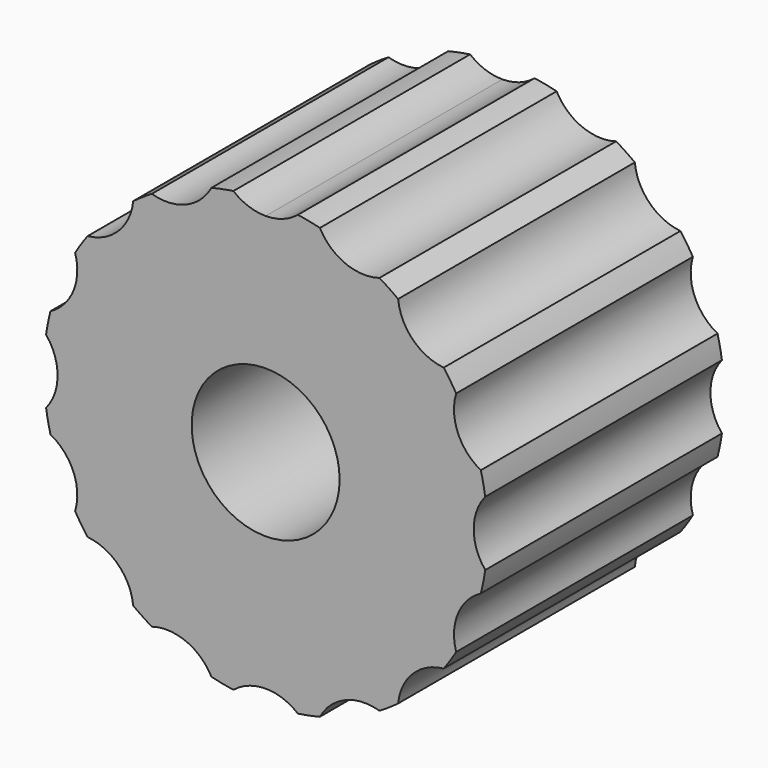
from build123d import *

# Parameters (mm, degrees)
F0_R     = 76.2
F0_R_2   = 25.4
F1_DEPTH = 101.6
F3_DEPTH = 101.6


with BuildPart() as f1:
    # F0 (on Front) → F1 (new body)
    with BuildSketch(Plane.XZ):
        Circle(F0_R)
        Circle(F0_R_2, mode=Mode.SUBTRACT)
    extrude(amount=F1_DEPTH)

    # F2 (on face) → F3 (cut)
    with BuildSketch(Plane.XZ.offset(101.6)):
        with BuildLine():
            ThreePointArc((39.0757230448, 65.4181004656), (29.1604775462, 70.3996203774), (18.6268737068, 73.8882911963))
            ThreePointArc((18.6268737068, 73.8882911963), (27.3379476996, 65.9996441038), (39.0757230448, 65.4181004656))
        make_face()
        with BuildLine():
            ThreePointArc((61.1356839641, 45.484812259), (53.8815367264, 53.8815367264), (45.484812259, 61.1356839641))
            ThreePointArc((45.484812259, 61.1356839641), (50.513940681, 50.513940681), (61.1356839641, 45.484812259))
        make_face()
        with BuildLine():
            ThreePointArc((73.8882911963, 18.6268737068), (70.3996203774, 29.1604775462), (65.4181004656, 39.0757230448))
            ThreePointArc((65.4181004656, 39.0757230448), (65.9996441038, 27.3379476996), (73.8882911963, 18.6268737068))
        make_face()
        with BuildLine():
            ThreePointArc((76.2, 0), (75.9977505688, 5.5481445982), (75.3920758929, 11.0668375142))
            ThreePointArc((75.3920758929, 11.0668375142), (71.4375, 0), (75.3920758929, -11.0668375142))
            ThreePointArc((75.3920758929, -11.0668375142), (75.9977505688, -5.5481445982), (76.2, 0))
        make_face()
        with BuildLine():
            ThreePointArc((65.4181004656, -39.0757230448), (70.3996203774, -29.1604775462), (73.8882911963, -18.6268737068))
            ThreePointArc((73.8882911963, -18.6268737068), (65.9996441038, -27.3379476996), (65.4181004656, -39.0757230448))
        make_face()
        with BuildLine():
            ThreePointArc((45.484812259, -61.1356839641), (53.8815367264, -53.8815367264), (61.1356839641, -45.484812259))
            ThreePointArc((61.1356839641, -45.484812259), (50.513940681, -50.513940681), (45.484812259, -61.1356839641))
        make_face()
        with BuildLine():
            ThreePointArc((18.6268737068, -73.8882911963), (29.1604775462, -70.3996203774), (39.0757230448, -65.4181004656))
            ThreePointArc((39.0757230448, -65.4181004656), (27.3379476996, -65.9996441038), (18.6268737068, -73.8882911963))
        make_face()
        with BuildLine():
            ThreePointArc((11.0668375142, -75.3920758929), (0, -71.4375), (-11.0668375142, -75.3920758929))
            ThreePointArc((-11.0668375142, -75.3920758929), (0, -76.2), (11.0668375142, -75.3920758929))
        make_face()
        with BuildLine():
            ThreePointArc((-18.6268737068, -73.8882911963), (-27.3379476996, -65.9996441038), (-39.0757230448, -65.4181004656))
            ThreePointArc((-39.0757230448, -65.4181004656), (-29.1604775462, -70.3996203774), (-18.6268737068, -73.8882911963))
        make_face()
        with BuildLine():
            ThreePointArc((-45.484812259, -61.1356839641), (-50.513940681, -50.513940681), (-61.1356839641, -45.484812259))
            ThreePointArc((-61.1356839641, -45.484812259), (-53.8815367264, -53.8815367264), (-45.484812259, -61.1356839641))
        make_face()
        with BuildLine():
            ThreePointArc((-65.4181004656, -39.0757230448), (-65.9996441038, -27.3379476996), (-73.8882911963, -18.6268737068))
            ThreePointArc((-73.8882911963, -18.6268737068), (-70.3996203774, -29.1604775462), (-65.4181004656, -39.0757230448))
        make_face()
        with BuildLine():
            ThreePointArc((-75.3920758929, -11.0668375142), (-71.4375, 0), (-75.3920758929, 11.0668375142))
            ThreePointArc((-75.3920758929, 11.0668375142), (-76.2, 0), (-75.3920758929, -11.0668375142))
        make_face()
        with BuildLine():
            ThreePointArc((-73.8882911963, 18.6268737068), (-65.9996441038, 27.3379476996), (-65.4181004656, 39.0757230448))
            ThreePointArc((-65.4181004656, 39.0757230448), (-70.3996203774, 29.1604775462), (-73.8882911963, 18.6268737068))
        make_face()
        with BuildLine():
            ThreePointArc((-61.1356839641, 45.484812259), (-50.513940681, 50.513940681), (-45.484812259, 61.1356839641))
            ThreePointArc((-45.484812259, 61.1356839641), (-53.8815367264, 53.8815367264), (-61.1356839641, 45.484812259))
        make_face()
        with BuildLine():
            ThreePointArc((-39.0757230448, 65.4181004656), (-27.3379476996, 65.9996441038), (-18.6268737068, 73.8882911963))
            ThreePointArc((-18.6268737068, 73.8882911963), (-29.1604775462, 70.3996203774), (-39.0757230448, 65.4181004656))
        make_face()
        with BuildLine():
            Line((0, 76.2), (0, 71.4375))
            ThreePointArc((0, 71.4375), (5.8760863476, 72.455836431), (11.0668375142, 75.3920758929))
            ThreePointArc((11.0668375142, 75.3920758929), (5.5481445982, 75.9977505688), (0, 76.2))
        make_face()
        with BuildLine():
            ThreePointArc((-11.0668375142, 75.3920758929), (-5.8760863476, 72.455836431), (0, 71.4375))
            Line((0, 71.4375), (0, 76.2))
            ThreePointArc((0, 76.2), (-5.5481445982, 75.9977505688), (-11.0668375142, 75.3920758929))
        make_face()
    extrude(amount=-F3_DEPTH, mode=Mode.SUBTRACT)


solid = f1.part
